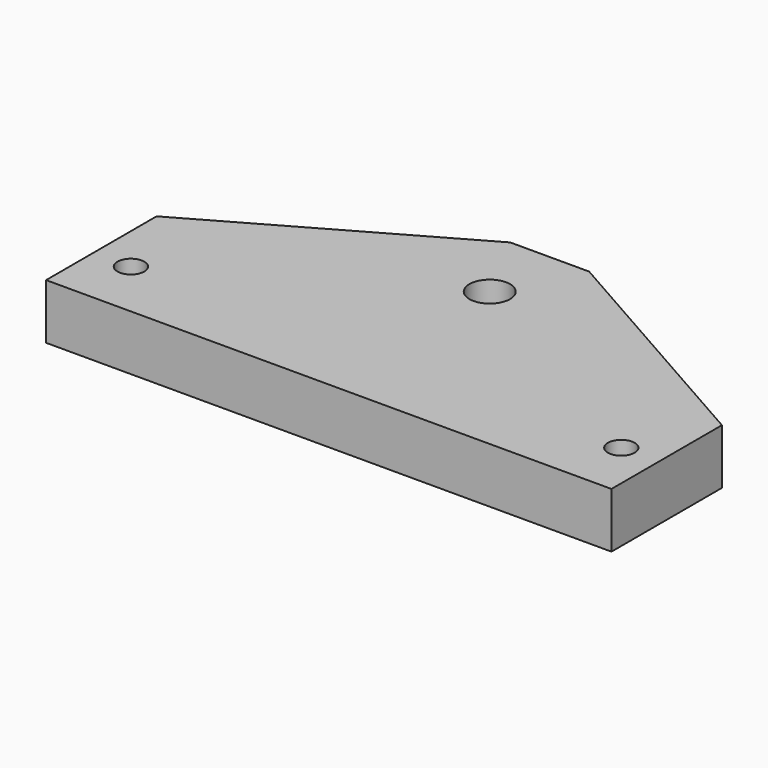
from build123d import *

# Parameters (mm, degrees)
F0_W     = 143.31
F0_H     = 35
F0_R     = 3.4
F0_R_2   = 5.15
F1_DEPTH = 14
F2_R     = 10
F2_R_2   = 5.15
F3_DEPTH = 6


with BuildPart() as f1:
    # F0 (on Top) → F1 (new body)
    with BuildSketch(Plane.XY):
        with Locations((0, 2.5)):
            Rectangle(F0_W, F0_H)
        with Locations((-62.155, 0)):
            Circle(F0_R, mode=Mode.SUBTRACT)
        with Locations((62.155, 0)):
            Circle(F0_R, mode=Mode.SUBTRACT)
        Polygon((-10, 55), (-71.655, 20), (71.655, 20), (10, 55), align=None)
        with Locations((0, 36)):
            Circle(F0_R_2, mode=Mode.SUBTRACT)
    extrude(amount=F1_DEPTH)

    # F2 (on face) → F3 (join)
    with BuildSketch(Plane(origin=(0, 0, 0), x_dir=(1, 0, 0), z_dir=(0, 0, -1))):
        with Locations((0, -36)):
            Circle(F2_R)
        with Locations((0, -36)):
            Circle(F2_R_2, mode=Mode.SUBTRACT)
    extrude(amount=F3_DEPTH)


solid = f1.part
